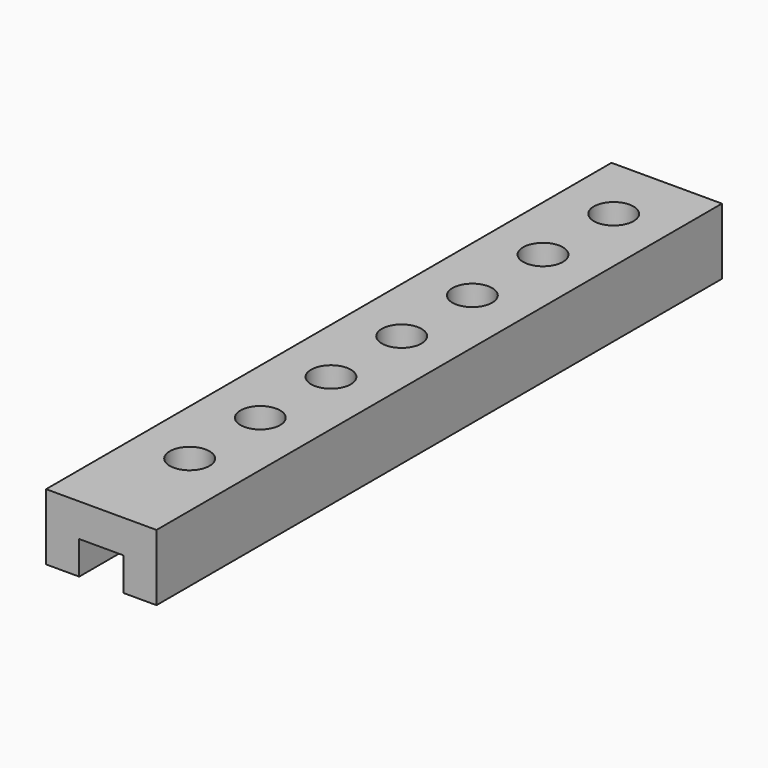
from build123d import *

# Parameters (mm, degrees)
F0_W     = 50
F0_H     = 320
F1_DEPTH = 30
F2_W     = 20
F2_H     = 320
F3_DEPTH = 15
F4_R     = 9
F5_DEPTH = 30.001


with BuildPart() as f1:
    # F0 (on Top) → F1 (new body)
    with BuildSketch(Plane.XY):
        with Locations((25, 160)):
            Rectangle(F0_W, F0_H)
    extrude(amount=F1_DEPTH)

    # F2 (on face) → F3 (cut)
    with BuildSketch(Plane(origin=(0, 0, 0), x_dir=(1, 0, 0), z_dir=(0, 0, -1))):
        with Locations((25, -160)):
            Rectangle(F2_W, F2_H)
    extrude(amount=-F3_DEPTH, mode=Mode.SUBTRACT)

    # F4 (on face) → F5 (cut, through all)
    with BuildSketch(Plane.XY.offset(30)):
        with Locations((25, 50)):
            Circle(F4_R)
        with Locations((25, 90)):
            Circle(F4_R)
        with Locations((25, 130)):
            Circle(F4_R)
        with Locations((25, 170)):
            Circle(F4_R)
        with Locations((25, 210)):
            Circle(F4_R)
        with Locations((25, 250)):
            Circle(F4_R)
        with Locations((25, 290)):
            Circle(F4_R)
    extrude(amount=-F5_DEPTH, mode=Mode.SUBTRACT)


solid = f1.part
